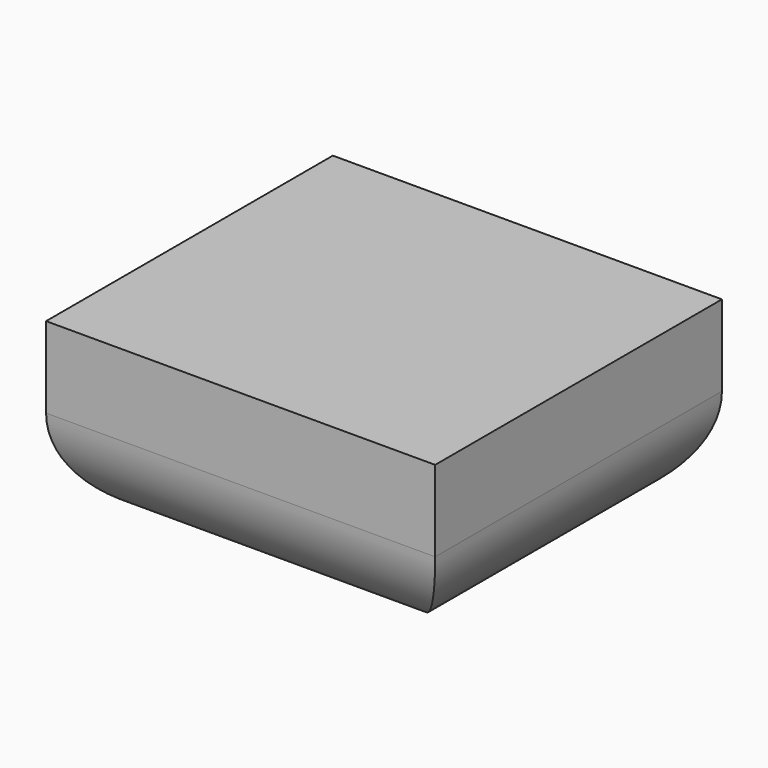
from build123d import *

# Parameters (mm, degrees)
F0_W     = 80.473281
F0_H     = 74.140206
F1_DEPTH = 18.370707
F2_R     = 20


with BuildPart() as f1:
    # F0 (on Top) → F1 (new body, symmetric)
    with BuildSketch(Plane.XY):
        with Locations((0.817138, -4.386343)):
            Rectangle(F0_W, F0_H)
    extrude(amount=F1_DEPTH, both=True)

    # F2
    f2_edges = [f1.edges().sort_by_distance(p)[0] for p in [
        (-39.419502, -4.386343, -18.370707),
        (0.817139, 32.68376, -18.370707),
        (0.817139, -41.456446, -18.370707),
        (41.053779, -4.386343, -18.370707),
    ]]
    fillet(f2_edges, radius=F2_R)


solid = f1.part
